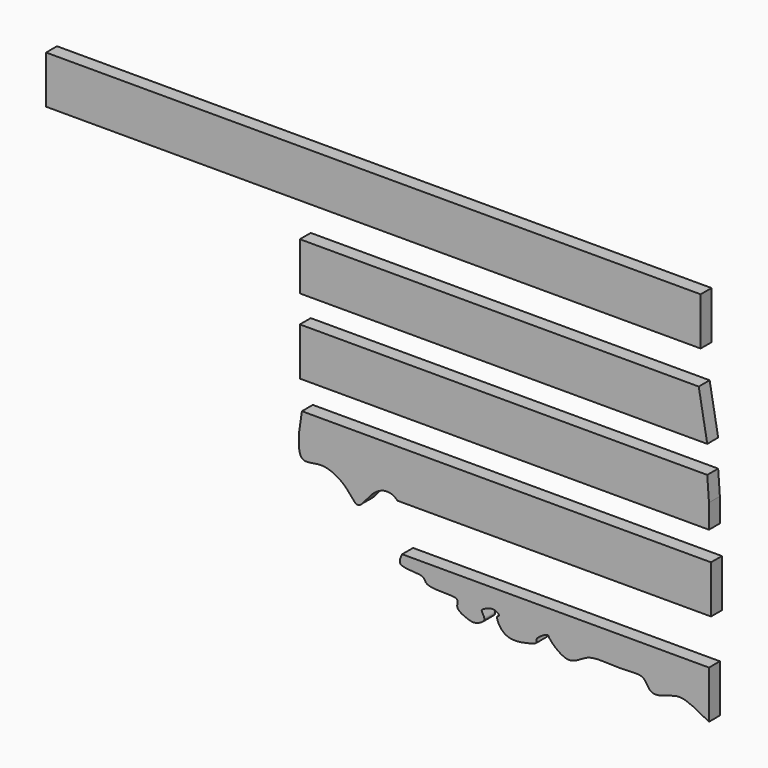
from build123d import *

# Parameters (mm, degrees)
F0_W     = 1219.2
F0_H     = 88.9
F1_DEPTH = 25.4
F3_DEPTH = 25.4
F5_DEPTH = 25.4
F7_DEPTH = 25.4
F9_DEPTH = 25.4


with BuildPart() as f1:
    # F0 (on Front) → F1 (new body)
    with BuildSketch(Plane.XZ):
        with Locations((609.6, 44.45)):
            Rectangle(F0_W, F0_H)
    extrude(amount=F1_DEPTH)


with BuildPart() as f3:
    # F2 (on Front) → F3 (new body)
    with BuildSketch(Plane.XZ):
        Polygon((1231.5109033108, -152.4), (1215.6359033108, -63.5), (472.6859033108, -63.5), (472.6859033108, -152.4), (1215.6359033108, -152.4), align=None)
    extrude(amount=F3_DEPTH)


with BuildPart() as f5:
    # F4 (on Front) → F5 (new body)
    with BuildSketch(Plane.XZ):
        Polygon((1234.6859033108, -247.65), (1231.5109033108, -203.2), (472.6859033108, -203.2), (472.6859033108, -292.1), (1234.6859033108, -292.1), align=None)
    extrude(amount=F5_DEPTH)


with BuildPart() as f7:
    # F6 (on Front) → F7 (new body)
    with BuildSketch(Plane.XZ):
        with BuildLine():
            Line((1238.4950275421, -344.2686839581), (476.4950275421, -344.2686839581))
            add(Edge.make_bspline(
                [(476.4950275421, -344.2686839581), (471.5617315727, -371.1672845679), (462.5505885059, -438.4450260098), (515.4985143119, -412.3723295594), (561.9703901672, -440.39730257), (581.9732878783, -477.5421320406), (607.3538537447, -426.9999778008), (641.7600714738, -419.5620238699), (654.2950275421, -433.1686839581)],
                knots=[0, 0, 0, 0, 0.2168443094, 0.3652436063, 0.547209463, 0.6773382476, 0.8378818434, 1, 1, 1, 1], degree=3))
            Line((654.2950275421, -433.1686839581), (1238.4950275421, -433.1686839581))
            Line((1238.4950275421, -433.1686839581), (1238.4950275421, -344.2686839581))
        make_face()
    extrude(amount=F7_DEPTH)


with BuildPart() as f9:
    # F8 (on Front) → F9 (new body)
    with BuildSketch(Plane.XZ):
        with BuildLine():
            Line((1234.7347106934, -606.9867910385), (1234.7347106934, -518.0867910385))
            Line((1234.7347106934, -518.0867910385), (663.2347106934, -518.0867910385))
            add(Edge.make_bspline(
                [(1234.7347106934, -606.9867910385), (1218.2828775309, -597.9654674262), (1190.3241738253, -582.6343787008), (1166.6441647671, -584.61509515), (1124.9078543263, -602.923709178), (1116.0655198037, -570.1040406035), (1087.1651201369, -573.0400456423), (1048.8493885343, -572.9732764449), (1006.6208041059, -569.3502803692), (973.3478950832, -603.4668921779), (935.7083712237, -567.2481303756), (935.3710784013, -559.3722797432), (909.5620610405, -574.5184848423), (916.2537453473, -582.5124881746), (899.4914327305, -587.7023125674), (852.533445913, -598.6797284909), (835.884529286, -560.7995808925), (846.94349372, -561.2199636962), (834.5787694691, -548.5122848847), (812.2057655711, -559.3432735285), (810.6078464194, -563.5661387818), (822.0054892547, -577.5874374539), (800.4291447021, -587.0070590309), (790.8048986835, -587.0356945962), (760.0886566595, -575.4248095562), (771.6149821069, -556.4120661548), (743.0857674883, -555.4793764985), (705.2030104126, -555.9324472635), (705.6984593323, -536.9969196147), (651.44660438, -542.944218704), (659.8709712567, -525.1798649817), (663.2347106934, -518.0867910385)],
                knots=[0, 0, 0, 0, 0.052190203, 0.0886934852, 0.1337423964, 0.1696082368, 0.2062611274, 0.252932132, 0.3003245392, 0.3466496297, 0.394607861, 0.4106298092, 0.4468089218, 0.4642021678, 0.49124079, 0.5416512579, 0.5809722526, 0.5957423593, 0.620340137, 0.6558842569, 0.6697166335, 0.6963285774, 0.7272586953, 0.7530570988, 0.7913118238, 0.8171102272, 0.852239532, 0.8964122943, 0.9217732732, 0.9687650918, 1, 1, 1, 1], degree=3))
        make_face()
    extrude(amount=F9_DEPTH)


solid = Compound([f1.part, f3.part, f5.part, f7.part, f9.part])
